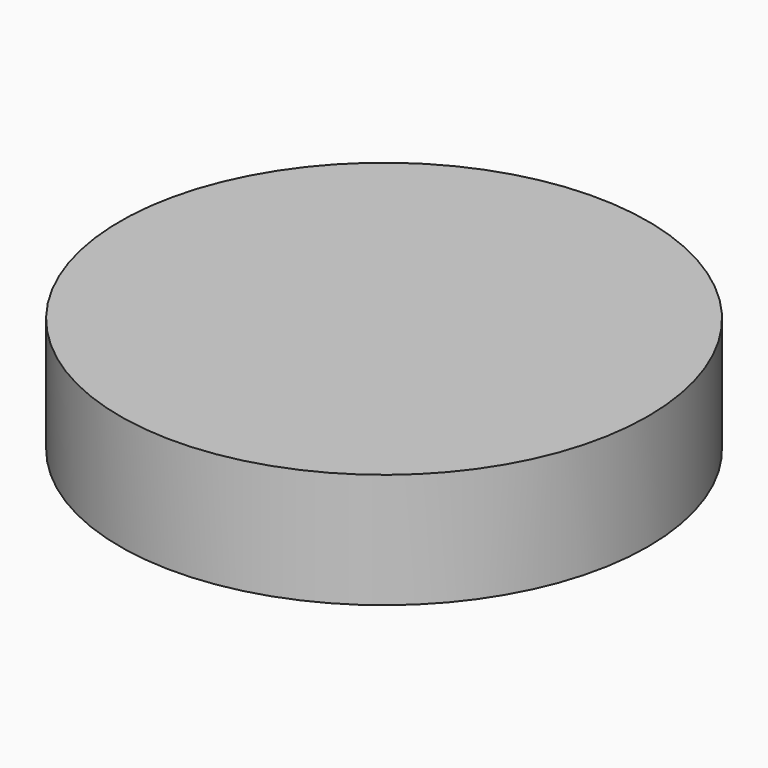
from build123d import *

# Parameters (mm, degrees)
CYLINDER_R     = 115
CYLINDER_DEPTH = 50


with BuildPart() as part:
    # Cylinder → Cylinder (join)
    with BuildSketch(Plane.XY):
        Circle(CYLINDER_R)
    extrude(amount=CYLINDER_DEPTH)


solid = part.part
